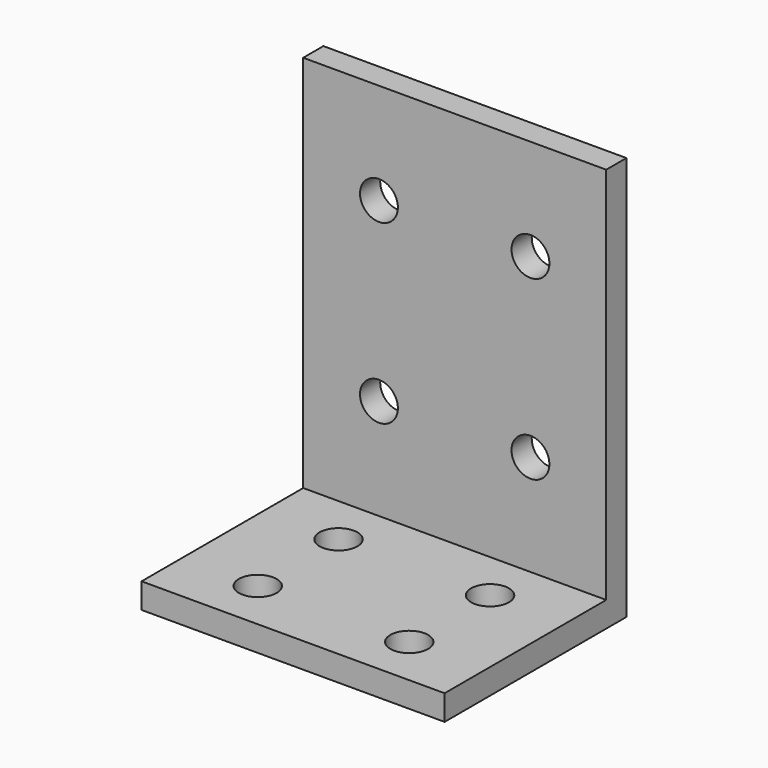
from build123d import *

# Parameters (mm, degrees)
F0_W     = 152.4
F0_H     = 203.2
F1_DEPTH = 12.7
F2_W     = 152.4
F2_H     = 12.7
F3_DEPTH = 101.6
F5_D     = 19.05
F5_DEPTH = 12.7
F7_D     = 19.05
F7_DEPTH = 12.7
F9_D     = 19.05
F9_DEPTH = 12.7


with BuildPart() as f1:
    # F0 (on Front) → F1 (new body)
    with BuildSketch(Plane.XZ):
        with Locations((76.2, 101.6)):
            Rectangle(F0_W, F0_H)
    extrude(amount=F1_DEPTH)

    # F2 (on face) → F3 (join)
    with BuildSketch(Plane.XZ.offset(12.7)):
        with Locations((76.2, 6.35)):
            Rectangle(F2_W, F2_H)
    extrude(amount=F3_DEPTH)

    # F5
    with Locations(Plane.XY.offset(12.7)):
        with Locations((38.1, -88.9)):
            Hole(F5_D / 2, depth=F5_DEPTH)

    # F7
    with Locations(Plane.XY.offset(12.7)):
        with Locations((38.1, -38.1), (114.3, -38.1), (114.3, -88.9)):
            Hole(F7_D / 2, depth=F7_DEPTH)

    # F9
    with Locations(Plane.XZ.offset(12.7)):
        with Locations((38.1, 152.4), (114.3, 152.4), (114.3, 63.5), (38.1, 63.5)):
            Hole(F9_D / 2, depth=F9_DEPTH)


solid = f1.part
